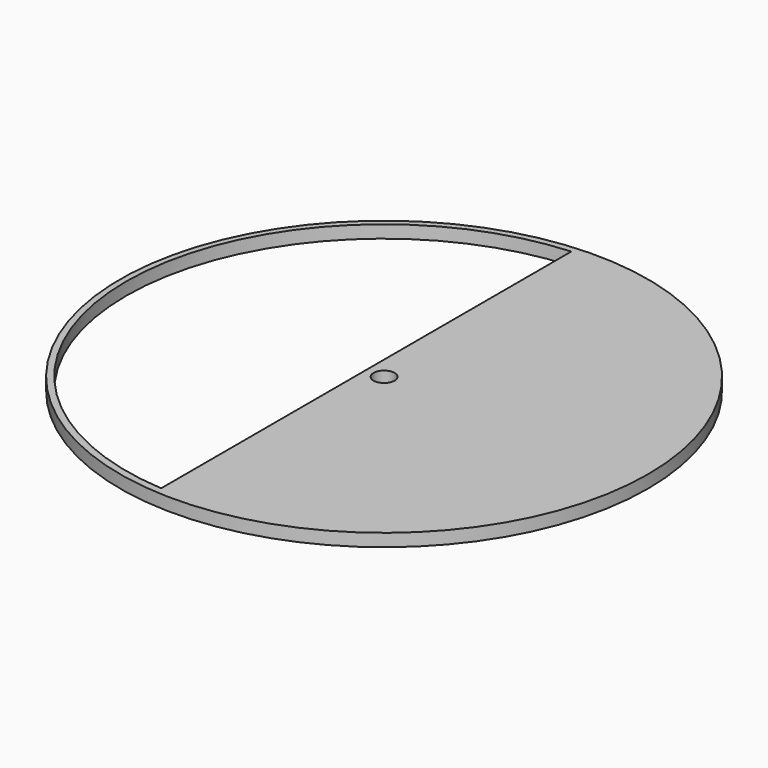
from build123d import *

# Parameters (mm, degrees)
F0_R     = 250
F1_DEPTH = 12
F2_R     = 10
F3_DEPTH = 12
F5_DEPTH = 12


with BuildPart() as f1:
    # F0 (on Top) → F1 (new body)
    with BuildSketch(Plane.XY):
        Circle(F0_R)
    extrude(amount=F1_DEPTH)

    # F2 (on Top) → F3 (cut)
    with BuildSketch(Plane.XY):
        Circle(F2_R)
    extrude(amount=F3_DEPTH, mode=Mode.SUBTRACT)

    # F4 (on Top) → F5 (cut)
    with BuildSketch(Plane.XY):
        with BuildLine():
            Line((-17.189631, -242.445424), (-17.189631, 0))
            Line((-17.189631, 0), (-17.189631, 243.161663))
            ThreePointArc((-17.189631, 243.161663), (-244.387855, 0.35812), (-17.189631, -242.445424))
        make_face()
    extrude(amount=F5_DEPTH, mode=Mode.SUBTRACT)


solid = f1.part
